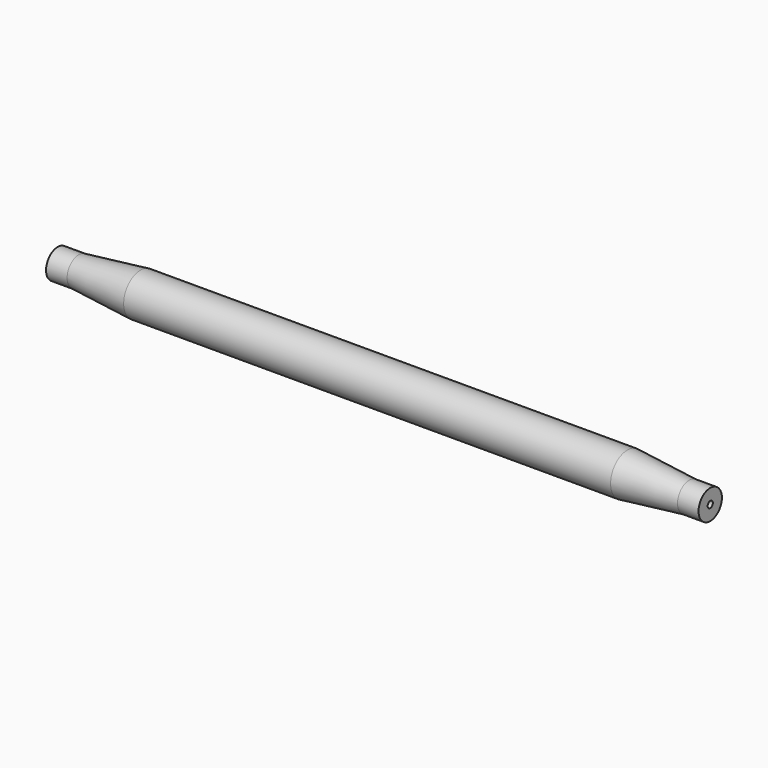
from build123d import *

# Parameters (mm, degrees)
F0_R           = 41.275
F1_DEPTH       = 476.25
F3_R           = 28.575
F4_DEPTH       = 41.148
F1_FACE_R      = 41.275
F4_FACE_R      = 28.575
F9_D           = 12.7
F9_DEPTH       = 38.1
F9_TIP         = 3.8154649308
F9_ON_F7_D     = 12.7
F9_ON_F7_DEPTH = 38.1
F9_ON_F7_TIP   = 3.8154649308


with BuildPart() as f1:
    # F0 (on Right) → F1 (new body, symmetric)
    with BuildSketch(Plane.YZ):
        Circle(F0_R)
    extrude(amount=F1_DEPTH, both=True)



with BuildPart() as f4:
    # F3 (on offset) → F4 (new body)
    with BuildSketch(Plane.YZ.offset(638.175)):
        Circle(F3_R)
    extrude(amount=-F4_DEPTH)


with BuildPart() as f1_1:
    add(f1.part)

    add(f4.part)  # F5 merges F4
    # F1_face (on face) → F5 section 0
    with BuildSketch(Plane.YZ.offset(476.25)):
        Circle(F1_FACE_R)
    # F4_face (on face) → F5 section 1
    with BuildSketch(Plane(origin=(597.027, 0, 0), x_dir=(0, 1, 0), z_dir=(-1, 0, 0))):
        Circle(F4_FACE_R)
    loft()

    # F6: F1 across plane


with BuildPart() as f1_2:
    add(f1_1.part)
    add(f1_1.part.mirror(Plane.YZ))

    # F9
    with Locations(Plane(origin=(-638.175, 0, 0), x_dir=(0, -1, 0), z_dir=(-1, 0, 0))):
        with Locations((0, 0)):
            Hole(F9_D / 2, depth=F9_DEPTH)
            with Locations((0, 0, -(F9_DEPTH + F9_TIP / 2))):  # 118° drill point
                Cone(0, F9_D / 2, F9_TIP, mode=Mode.SUBTRACT)

    # F9 on F7
    with Locations(Plane.YZ.offset(638.175)):
        with Locations((0, 0)):
            Hole(F9_ON_F7_D / 2, depth=F9_ON_F7_DEPTH)
            with Locations((0, 0, -(F9_ON_F7_DEPTH + F9_ON_F7_TIP / 2))):  # 118° drill point
                Cone(0, F9_ON_F7_D / 2, F9_ON_F7_TIP, mode=Mode.SUBTRACT)


solid = f1_2.part
